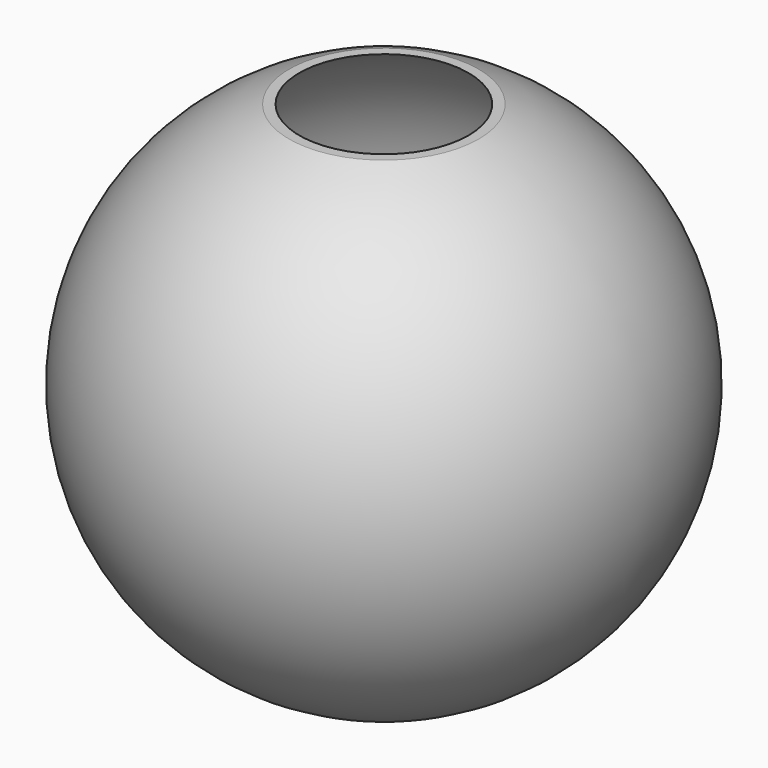
from build123d import *

# Parameters (mm, degrees)
F3_W     = 33.02
F3_H     = 33.02
F4_DEPTH = 25.4
F5_T     = -0.5


with BuildPart() as f1:
    # F0 (on Front) → F1 (revolve)
    with BuildSketch(Plane.XZ):
        with BuildLine():
            Line((0, 38.1), (0, -38.1))
            ThreePointArc((0, -38.1), (38.1, 0), (0, 38.1))
        make_face()
    revolve(axis=Axis((0, 0, 0), (0, 0, -1)))

    # F3 (on offset) → F4 (cut)
    with BuildSketch(Plane.XY.offset(35.56)):
        Rectangle(F3_W, F3_H)
    extrude(amount=F4_DEPTH, mode=Mode.SUBTRACT)

    # F5
    f5_openings = [f1.faces().sort_by_distance(p)[0] for p in [
        (0, 0, 35.56),
    ]]
    offset(amount=F5_T, openings=f5_openings)


solid = f1.part
